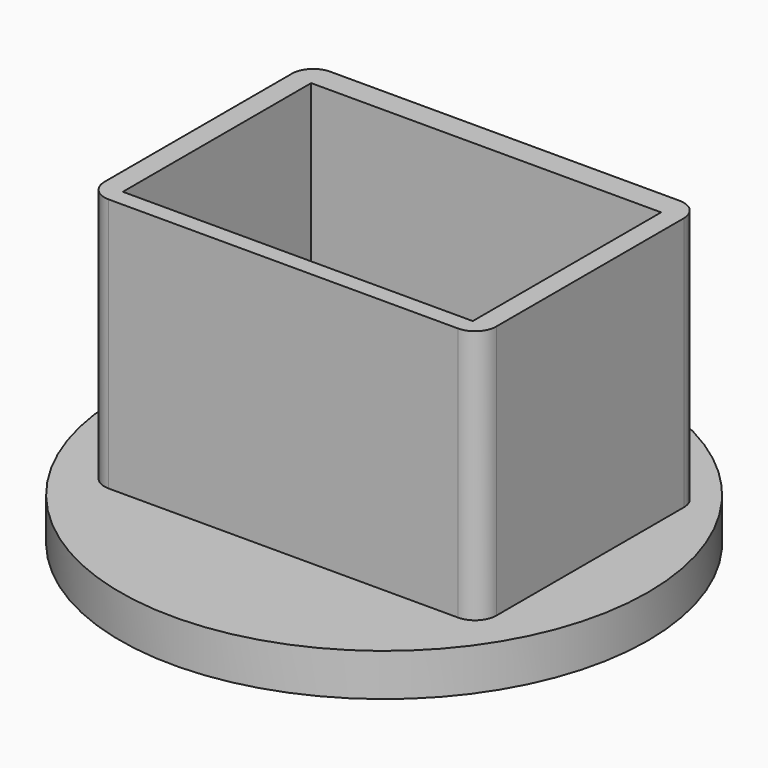
from build123d import *

# Parameters (mm, degrees)
F0_R     = 12.446
F1_DEPTH = 2
F2_W     = 16.5
F2_H     = 11.1
F3_DEPTH = 2
F4_W     = 16.5
F4_H     = 11.1
F5_DEPTH = 12


with BuildPart() as f1:
    # F0 (on Top) → F1 (new body)
    with BuildSketch(Plane.XY):
        Circle(F0_R)
    extrude(amount=F1_DEPTH)

    # F2 (on face) → F3 (cut)
    with BuildSketch(Plane.XY.offset(2)):
        with Locations((0.043004984, 0.4093858295)):
            Rectangle(F2_W, F2_H)
    extrude(amount=-F3_DEPTH, mode=Mode.SUBTRACT)

    # F4 (on face) → F5 (join)
    with BuildSketch(Plane.XY.offset(2)):
        with BuildLine():
            Line((8.2407790944, 7.1094609438), (-8.2307832092, 7.1094609438))
            ThreePointArc((-8.2307832092, 7.1094609438), (-8.9378899904, 6.816567725), (-9.2307832092, 6.1094609438))
            Line((-9.2307832092, 6.1094609438), (-9.2307832092, -4.9415921569))
            ThreePointArc((-9.2307832092, -4.9415921569), (-8.9378899904, -5.6486989381), (-8.2307832092, -5.9415921569))
            Line((-8.2307832092, -5.9415921569), (8.2407790944, -5.9415921569))
            ThreePointArc((8.2407790944, -5.9415921569), (8.9478858756, -5.6486989381), (9.2407790944, -4.9415921569))
            Line((9.2407790944, -4.9415921569), (9.2407790944, 6.1094609438))
            ThreePointArc((9.2407790944, 6.1094609438), (8.9478858756, 6.816567725), (8.2407790944, 7.1094609438))
        make_face()
        with Locations((0.043004984, 0.4093858295)):
            Rectangle(F4_W, F4_H, mode=Mode.SUBTRACT)
    extrude(amount=F5_DEPTH)


solid = f1.part
